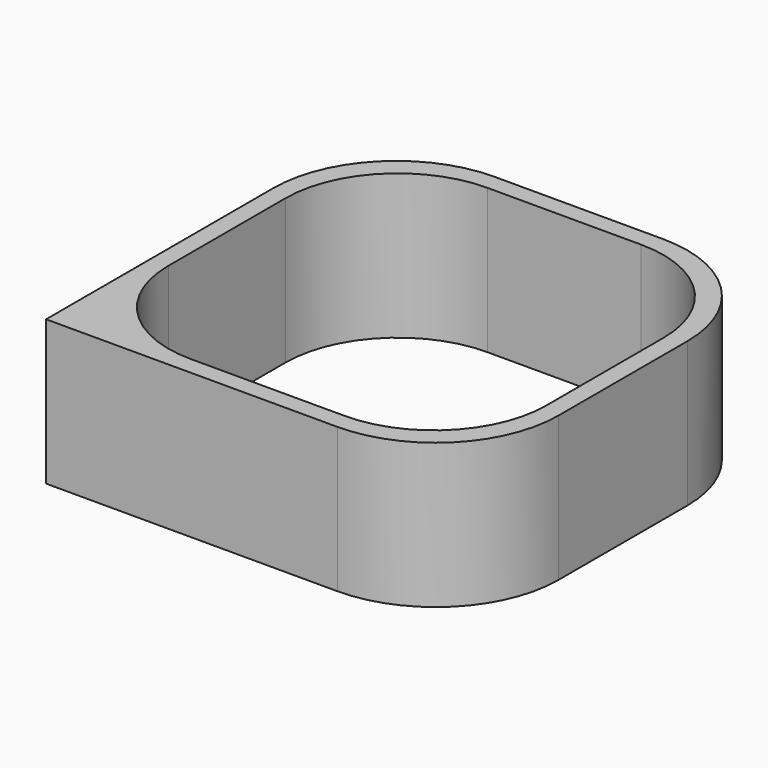
from build123d import *

# Parameters (mm, degrees)
BOX001_W     = 104.5
BOX001_H     = 102.5
BOX001_DEPTH = 42
BOX_W        = 114.5
BOX_H        = 112.5
BOX_DEPTH    = 40
FILLET_R     = 31
FILLET001_R  = 31
FILLET002_R  = 31
FILLET003_R  = 31
FILLET004_R  = 34
FILLET005_R  = 34
FILLET006_R  = 34


with BuildPart() as cubo001:
    # Box001 → Box001 (new body)
    with BuildSketch(Plane(origin=(5, 5, 0), x_dir=(1, 0, 0), z_dir=(0, 0, 1))):
        with Locations((52.25, 51.25)):
            Rectangle(BOX001_W, BOX001_H)
    extrude(amount=BOX001_DEPTH)


with BuildPart() as fillet006:
    # Box → Box (new body)
    with BuildSketch(Plane.XY):
        with Locations((57.25, 56.25)):
            Rectangle(BOX_W, BOX_H)
    extrude(amount=BOX_DEPTH)

    # Cut: cut Cubo001
    add(cubo001.part, mode=Mode.SUBTRACT)

    # Fillet
    fillet_edges = [fillet006.edges().sort_by_distance(p)[0] for p in [
        (5, 107.5, 20),
    ]]
    fillet(fillet_edges, radius=FILLET_R)

    # Fillet001
    fillet001_edges = [fillet006.edges().sort_by_distance(p)[0] for p in [
        (109.5, 107.5, 20),
    ]]
    fillet(fillet001_edges, radius=FILLET001_R)

    # Fillet002
    fillet002_edges = [fillet006.edges().sort_by_distance(p)[0] for p in [
        (5, 5, 20),
    ]]
    fillet(fillet002_edges, radius=FILLET002_R)

    # Fillet003
    fillet003_edges = [fillet006.edges().sort_by_distance(p)[0] for p in [
        (109.5, 5, 20),
    ]]
    fillet(fillet003_edges, radius=FILLET003_R)

    # Fillet004
    fillet004_edges = [fillet006.edges().sort_by_distance(p)[0] for p in [
        (0, 112.5, 20),
    ]]
    fillet(fillet004_edges, radius=FILLET004_R)

    # Fillet005
    fillet005_edges = [fillet006.edges().sort_by_distance(p)[0] for p in [
        (114.5, 112.5, 20),
    ]]
    fillet(fillet005_edges, radius=FILLET005_R)

    # Fillet006
    fillet006_edges = [fillet006.edges().sort_by_distance(p)[0] for p in [
        (114.5, 0, 20),
    ]]
    fillet(fillet006_edges, radius=FILLET006_R)


solid = fillet006.part
